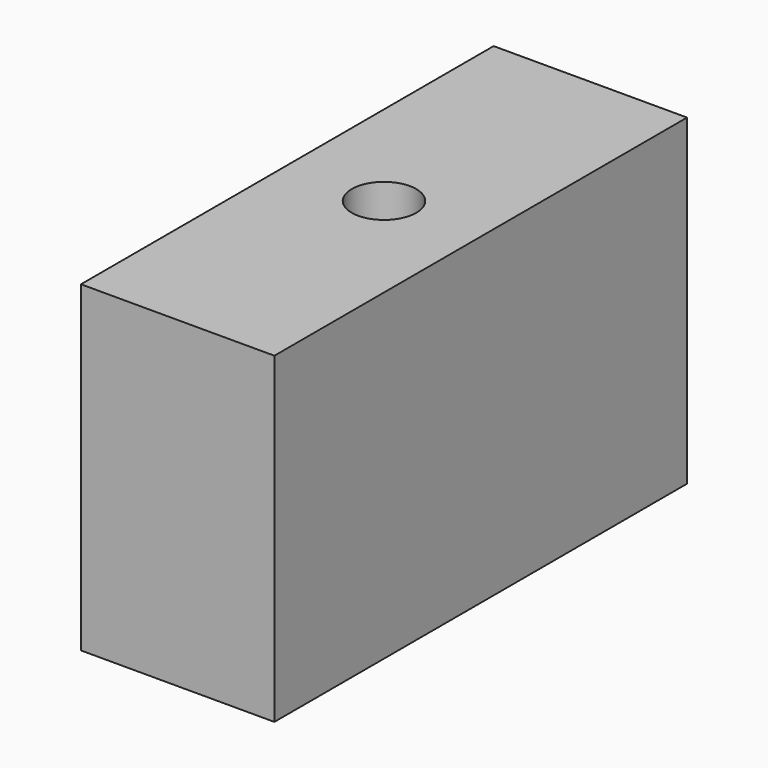
from build123d import *

# Parameters (mm, degrees)
F0_W     = 15.24
F0_H     = 40.64
F0_R     = 5.08
F1_DEPTH = 25.4
F0_R_2   = 2.54
F2_DEPTH = 20.32


with BuildPart() as f1:
    # F0 (on Top) → F1 (new body)
    with BuildSketch(Plane.XY):
        with Locations((7.62, -20.32)):
            Rectangle(F0_W, F0_H)
        with Locations((7.62, -20.32)):
            Circle(F0_R, mode=Mode.SUBTRACT)
    extrude(amount=-F1_DEPTH)

    # F0 (on Top) → F2 (join)
    with BuildSketch(Plane.XY):
        with Locations((7.62, -20.32)):
            Circle(F0_R)
        with Locations((7.62, -20.32)):
            Circle(F0_R_2, mode=Mode.SUBTRACT)
    extrude(amount=-F2_DEPTH)


solid = f1.part
